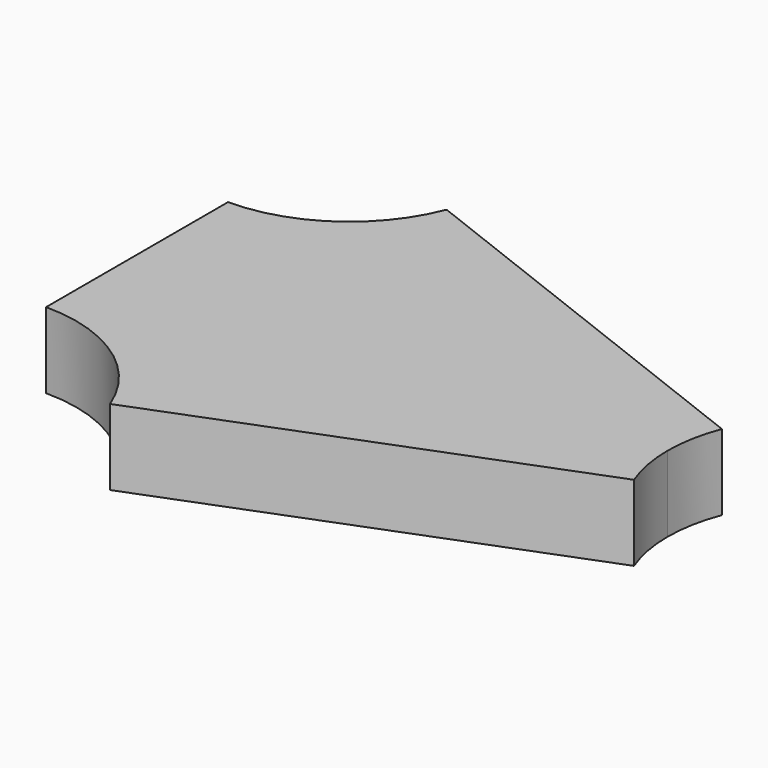
from build123d import *

# Parameters (mm, degrees)
F1_DEPTH = 25.4


with BuildPart() as f1:
    # F0 (on Top) → F1 (new body)
    with BuildSketch(Plane.XY):
        with BuildLine():
            Line((-91.439995, 38.1), (-91.439995, 0))
            Line((-91.439995, 0), (86.360005, 0))
            ThreePointArc((86.360005, 0), (87.231013, 9.366735), (89.814168, 18.41227))
            Line((89.814168, 18.41227), (-44.094157, 70.48773))
            ThreePointArc((-44.094157, 70.48773), (-62.758148, 46.971589), (-91.439995, 38.1))
        make_face()
        with BuildLine():
            Line((86.360005, 0), (-91.439995, 0))
            Line((-91.439995, 0), (-91.439995, -38.1))
            ThreePointArc((-91.439995, -38.1), (-62.758148, -46.971589), (-44.094157, -70.48773))
            Line((-44.094157, -70.48773), (89.814168, -18.41227))
            ThreePointArc((89.814168, -18.41227), (87.231013, -9.366735), (86.360005, 0))
        make_face()
    extrude(amount=F1_DEPTH)


solid = f1.part
